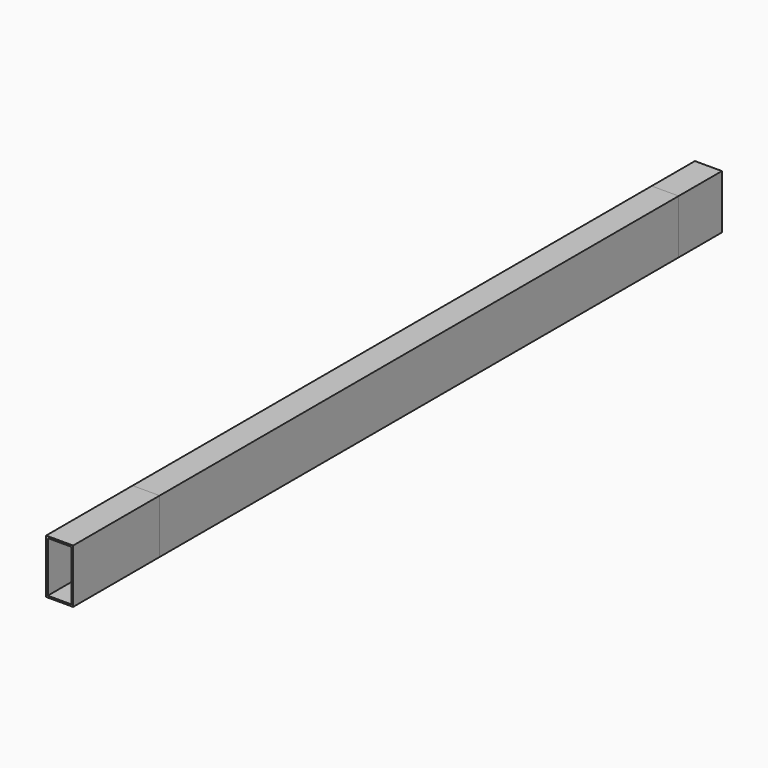
from build123d import *

# Parameters (mm, degrees)
F4_W     = 25.4
F4_H     = 50.8
F4_W_2   = 22.225
F4_H_2   = 47.625
F5_DEPTH = 762
F6_DEPTH = 711.2
F7_DEPTH = 76.2
F8_DEPTH = 101.6


with BuildPart() as f5:
    # F4 (on Front) → F5 (new body)
    with BuildSketch(Plane.XZ):
        with Locations((12.7, 25.4)):
            Rectangle(F4_W, F4_H)
        with Locations((12.7, 25.4)):
            Rectangle(F4_W_2, F4_H_2, mode=Mode.SUBTRACT)
    extrude(amount=-F5_DEPTH)


with BuildPart() as f6:
    # F4 (on Front) → F6 (new body)
    with BuildSketch(Plane.XZ):
        with Locations((12.7, 25.4)):
            Rectangle(F4_W, F4_H)
        with Locations((12.7, 25.4)):
            Rectangle(F4_W_2, F4_H_2, mode=Mode.SUBTRACT)
    extrude(amount=-F6_DEPTH)


with BuildPart() as f7:
    # F4 (on Front) → F7 (new body)
    with BuildSketch(Plane.XZ):
        with Locations((12.7, 25.4)):
            Rectangle(F4_W, F4_H)
        with Locations((12.7, 25.4)):
            Rectangle(F4_W_2, F4_H_2, mode=Mode.SUBTRACT)
    extrude(amount=-F7_DEPTH)


with BuildPart() as f8:
    # F4 (on Front) → F8 (new body)
    with BuildSketch(Plane.XZ):
        with Locations((12.7, 25.4)):
            Rectangle(F4_W, F4_H)
        with Locations((12.7, 25.4)):
            Rectangle(F4_W_2, F4_H_2, mode=Mode.SUBTRACT)
    extrude(amount=-F8_DEPTH)


solid = Compound([f5.part, f6.part, f7.part, f8.part])
